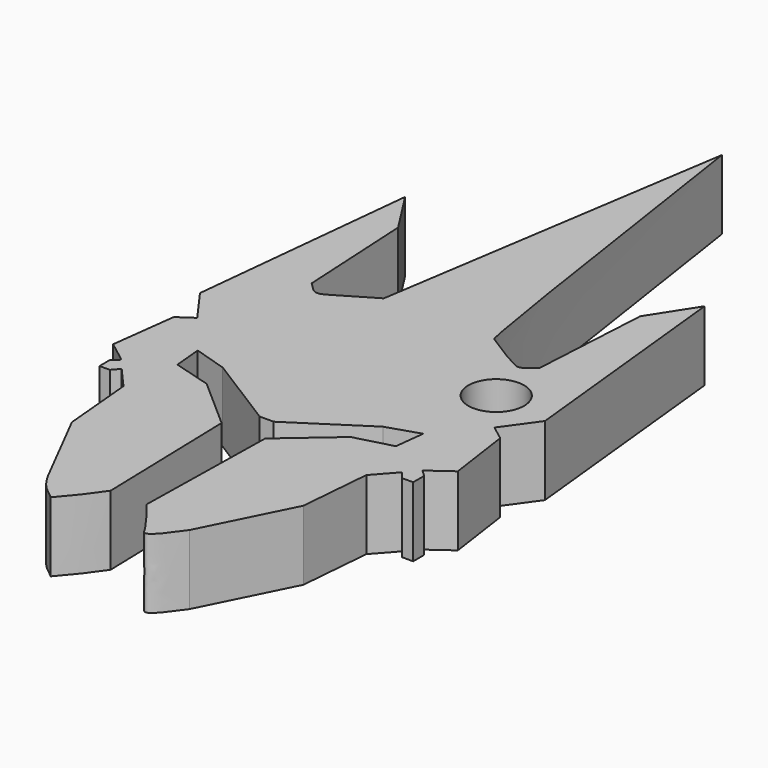
from build123d import *

# Parameters (mm, degrees)
F1_DEPTH = 5
F2_R     = 2
F3_DEPTH = 5


with BuildPart() as f1:
    # F0 (on Top) → F1 (new body)
    with BuildSketch(Plane.XY):
        with BuildLine():
            add(Edge.make_bspline(
                [(29.9724638904, 58.0447454468), (31.7486587338, 46.112565922), (33.7330302932, 32.7818900796), (34.032502938, 32.5658368121), (36.7673048364, 30.807175908), (37.3404538194, 30.759543032), (37.8542657204, 31.2150305121), (38.1466307056, 31.4742082192)],
                knots=[0, 0, 0, 0, 0.5506725855, 0.6152134837, 0.8069634099, 0.890159921, 1, 1, 1, 1], degree=3))
            add(Edge.make_bspline(
                [(26.0426644236, 32.607961446), (27.3525975792, 41.0868894463), (28.6625307348, 49.5658174465), (29.9724638904, 58.0447454468)],
                knots=[0, 0, 0, 0, 25.7385567612, 25.7385567612, 25.7385567612, 25.7385567612], degree=3))
            add(Edge.make_bspline(
                [(23.2348386198, 30.9456177056), (24.1707805544, 31.4997322857), (25.106722489, 32.0538468659), (26.0426644236, 32.607961446)],
                knots=[0, 0, 0, 0, 3.2630158528, 3.2630158528, 3.2630158528, 3.2630158528], degree=3))
            add(Edge.make_bspline(
                [(21.7401254922, 31.5183587372), (22.0453741248, 31.1862547621), (22.574568522, 30.610502591), (23.0385077117, 30.845971432), (23.2348386198, 30.9456177056)],
                knots=[0, 0, 0, 0, 0.5768175819, 1, 1, 1, 1], degree=3))
            add(Edge.make_bspline(
                [(21.2931074202, 39.8300811648), (21.4421134442, 37.0595070223), (21.5911194682, 34.2889328798), (21.7401254922, 31.5183587372)],
                knots=[0, 0, 0, 0, 8.3237344305, 8.3237344305, 8.3237344305, 8.3237344305], degree=3))
            add(Edge.make_bspline(
                [(19.2783884704, 42.976025492), (19.9499614537, 41.9273773829), (20.6215344369, 40.8787292739), (21.2931074202, 39.8300811648)],
                knots=[0, 0, 0, 0, 3.735780796, 3.735780796, 3.735780796, 3.735780796], degree=3))
            add(Edge.make_bspline(
                [(17.5911597908, 26.6739595681), (18.1535693506, 32.1079815427), (18.7159789105, 37.5420035173), (19.2783884704, 42.976025492)],
                knots=[0, 0, 0, 0, 16.3891456154, 16.3891456154, 16.3891456154, 16.3891456154], degree=3))
            add(Edge.make_bspline(
                [(19.3532668054, 24.2223013192), (18.7658978005, 25.0395207355), (18.1785287956, 25.8567401518), (17.5911597908, 26.6739595681)],
                knots=[0, 0, 0, 0, 3.0192133579, 3.0192133579, 3.0192133579, 3.0192133579], degree=3))
            add(Edge.make_bspline(
                [(18.2615574449, 23.477986455), (18.6254605651, 23.7260914097), (18.9893636853, 23.9741963645), (19.3532668054, 24.2223013192)],
                knots=[0, 0, 0, 0, 1.3213000965, 1.3213000965, 1.3213000965, 1.3213000965], degree=3))
            add(Edge.make_bspline(
                [(17.671212554, 18.77704449), (17.8679941843, 20.344025145), (18.0647758146, 21.9110058), (18.2615574449, 23.477986455)],
                knots=[0, 0, 0, 0, 4.7378647562, 4.7378647562, 4.7378647562, 4.7378647562], degree=3))
            add(Edge.make_bspline(
                [(19.2088503391, 17.6043882966), (18.6963044107, 17.9952736944), (18.1837584823, 18.3861590922), (17.671212554, 18.77704449)],
                knots=[0, 0, 0, 0, 1.9337664042, 1.9337664042, 1.9337664042, 1.9337664042], degree=3))
            add(Edge.make_bspline(
                [(18.7254343182, 17.1286463737), (18.8865729918, 17.2872270147), (19.0477116654, 17.4458076557), (19.2088503391, 17.6043882966)],
                knots=[0, 0, 0, 0, 0.6782487939, 0.6782487939, 0.6782487939, 0.6782487939], degree=3))
            add(Edge.make_bspline(
                [(18.7254343182, 16.2346344441), (18.7254343182, 16.5326384207), (18.7254343182, 16.8306423972), (18.7254343182, 17.1286463737)],
                knots=[0, 0, 0, 0, 0.8940119296, 0.8940119296, 0.8940119296, 0.8940119296], degree=3))
            add(Edge.make_bspline(
                [(19.4736756384, 16.2346344441), (19.2292003582, 16.2346344441), (18.9699095984, 16.2346344441), (18.7254343182, 16.2346344441)],
                knots=[0, 0, 0, 0, 0.7482413203, 0.7482413203, 0.7482413203, 0.7482413203], degree=3))
            add(Edge.make_bspline(
                [(19.909504801, 16.7448166758), (19.7642284135, 16.5772251785), (19.618952026, 16.4022259414), (19.4736756384, 16.2346344441)],
                knots=[0, 0, 0, 0, 0.6709940152, 0.6709940152, 0.6709940152, 0.6709940152], degree=3))
            add(Edge.make_bspline(
                [(21.3073641062, 15.1590099558), (20.8414110045, 15.6876121958), (20.3754579027, 16.2162144358), (19.909504801, 16.7448166758)],
                knots=[0, 0, 0, 0, 2.1139521258, 2.1139521258, 2.1139521258, 2.1139521258], degree=3))
            add(Edge.make_bspline(
                [(21.7772331089, 9.9434666336), (21.620610108, 11.6819810743), (21.4639871071, 13.4204955151), (21.3073641062, 15.1590099558)],
                knots=[0, 0, 0, 0, 5.2366658311, 5.2366658311, 5.2366658311, 5.2366658311], degree=3))
            add(Edge.make_bspline(
                [(24.502472952, 4.5987097546), (23.605806753, 6.3685486093), (22.6738993078, 8.1736277789), (21.7772331089, 9.9434666336)],
                knots=[0, 0, 0, 0, 5.9994464992, 5.9994464992, 5.9994464992, 5.9994464992], degree=3))
            add(Edge.make_bspline(
                [(26.5474077314, 2.0785415545), (26.1329942157, 2.3952502739), (25.2832540862, 3.0446502041), (24.7669687916, 4.0722596809), (24.502472952, 4.5987097546)],
                knots=[0, 0, 0, 0, 0.4876944154, 1, 1, 1, 1], degree=3))
            add(Edge.make_bspline(
                [(28.6707375199, 4.8025515862), (28.0442070216, 3.8789161481), (27.3298751563, 2.9444703832), (26.5474077314, 2.0785415545)],
                knots=[0, 0, 0, 0, 3.4538037065, 3.4538037065, 3.4538037065, 3.4538037065], degree=3))
            add(Edge.make_bspline(
                [(28.6707375199, 4.8025515862), (28.6707375199, 4.8165208039), (28.6707375199, 4.8304900217), (28.6707375199, 4.8444592394)],
                knots=[0, 0, 0, 0, 0.0419076532, 0.0419076532, 0.0419076532, 0.0419076532], degree=3))
            add(Edge.make_bspline(
                [(28.3913500607, 15.1118822396), (28.4844792138, 11.6894079062), (28.5776083668, 8.2669335728), (28.6707375199, 4.8444592394)],
                knots=[0, 0, 0, 0, 10.2712235112, 10.2712235112, 10.2712235112, 10.2712235112], degree=3))
            add(Edge.make_bspline(
                [(24.76522699, 18.3016471565), (25.9739346802, 17.2383921842), (27.1826423705, 16.1751372119), (28.3913500607, 15.1118822396)],
                knots=[0, 0, 0, 0, 4.8294273728, 4.8294273728, 4.8294273728, 4.8294273728], degree=3))
            add(Edge.make_bspline(
                [(22.0341142267, 19.0945509821), (22.9444851478, 18.8302497069), (23.8548560689, 18.5659484317), (24.76522699, 18.3016471565)],
                knots=[0, 0, 0, 0, 2.8438835072, 2.8438835072, 2.8438835072, 2.8438835072], degree=3))
            add(Edge.make_bspline(
                [(21.8472741544, 21.1488306522), (21.9095541785, 20.4640707622), (21.9718342026, 19.7793108722), (22.0341142267, 19.0945509821)],
                knots=[0, 0, 0, 0, 2.0627588748, 2.0627588748, 2.0627588748, 2.0627588748], degree=3))
            add(Edge.make_bspline(
                [(24.2360215634, 20.4084590077), (23.4397724271, 20.6552495559), (22.6435232908, 20.9020401041), (21.8472741544, 21.1488306522)],
                knots=[0, 0, 0, 0, 2.5008527258, 2.5008527258, 2.5008527258, 2.5008527258], degree=3))
            add(Edge.make_bspline(
                [(29.5722875744, 17.0558299869), (27.7935322374, 18.1733729939), (26.0147769004, 19.2909160008), (24.2360215634, 20.4084590077)],
                knots=[0, 0, 0, 0, 6.3020517525, 6.3020517525, 6.3020517525, 6.3020517525], degree=3))
            add(Edge.make_bspline(
                [(30.5780749768, 17.0558299869), (30.2428125093, 17.0558299869), (29.9075500419, 17.0558299869), (29.5722875744, 17.0558299869)],
                knots=[0, 0, 0, 0, 1.0057874024, 1.0057874024, 1.0057874024, 1.0057874024], degree=3))
            add(Edge.make_bspline(
                [(35.7327386737, 20.4084590077), (34.0145174414, 19.2909160008), (32.2962962091, 18.1733729939), (30.5780749768, 17.0558299869)],
                knots=[0, 0, 0, 0, 6.1490388826, 6.1490388826, 6.1490388826, 6.1490388826], degree=3))
            add(Edge.make_bspline(
                [(38.0376726389, 21.1488306522), (37.2693613172, 20.9020401041), (36.5010499954, 20.6552495559), (35.7327386737, 20.4084590077)],
                knots=[0, 0, 0, 0, 2.4209235337, 2.4209235337, 2.4209235337, 2.4209235337], degree=3))
            add(Edge.make_bspline(
                [(37.7862267196, 19.0115291625), (37.870042026, 19.7239629924), (37.9538573325, 20.4363968223), (38.0376726389, 21.1488306522)],
                knots=[0, 0, 0, 0, 2.152041521, 2.152041521, 2.152041521, 2.152041521], degree=3))
            add(Edge.make_bspline(
                [(35.107459873, 18.2990971953), (36.0003821552, 18.5365745177), (36.8933044374, 18.7740518401), (37.7862267196, 19.0115291625)],
                knots=[0, 0, 0, 0, 2.771885843, 2.771885843, 2.771885843, 2.771885843], degree=3))
            add(Edge.make_bspline(
                [(31.4793661237, 15.1624120772), (32.6887307068, 16.2079737832), (33.8980952899, 17.2535354892), (35.107459873, 18.2990971953)],
                knots=[0, 0, 0, 0, 4.7960252067, 4.7960252067, 4.7960252067, 4.7960252067], degree=3))
            add(Edge.make_bspline(
                [(31.2843844295, 4.7608800232), (31.3493783275, 8.2280573746), (31.4143722256, 11.6952347259), (31.4793661237, 15.1624120772)],
                knots=[0, 0, 0, 0, 10.403359406, 10.403359406, 10.403359406, 10.403359406], degree=3))
            add(Edge.make_bspline(
                [(32.0361740887, 3.8325546775), (31.7855775356, 4.1419964594), (31.5349809825, 4.4514382413), (31.2843844295, 4.7608800232)],
                knots=[0, 0, 0, 0, 1.1945608563, 1.1945608563, 1.1945608563, 1.1945608563], degree=3))
            add(Edge.make_bspline(
                [(33.054754138, 2.4114842527), (32.7152274549, 2.8851743943), (32.3757007718, 3.3588645359), (32.0361740887, 3.8325546775)],
                knots=[0, 0, 0, 0, 1.7484125569, 1.7484125569, 1.7484125569, 1.7484125569], degree=3))
            add(Edge.make_bspline(
                [(35.107459873, 3.8325546775), (34.4551394852, 2.9154699561), (33.4908565418, 1.5598030612), (33.1613540206, 2.2033012336), (33.054754138, 2.4114842527)],
                knots=[0, 0, 0, 0, 0.676482346, 1, 1, 1, 1], degree=3))
            add(Edge.make_bspline(
                [(38.2508561015, 10.1316999644), (37.2030573587, 8.0319848688), (36.1552586158, 5.9322697731), (35.107459873, 3.8325546775)],
                knots=[0, 0, 0, 0, 7.0398985217, 7.0398985217, 7.0398985217, 7.0398985217], degree=3))
            add(Edge.make_bspline(
                [(38.6808179319, 15.2363879606), (38.5374973218, 13.5348252952), (38.3941767116, 11.8332626298), (38.2508561015, 10.1316999644)],
                knots=[0, 0, 0, 0, 5.1227635817, 5.1227635817, 5.1227635817, 5.1227635817], degree=3))
            add(Edge.make_bspline(
                [(40.0323420763, 16.7555473745), (39.5818340282, 16.2491609032), (39.13132598, 15.7427744319), (38.6808179319, 15.2363879606)],
                knots=[0, 0, 0, 0, 2.0333378563, 2.0333378563, 2.0333378563, 2.0333378563], degree=3))
            add(Edge.make_bspline(
                [(40.4816567898, 16.2004696439), (40.3318852186, 16.3854955541), (40.1821136475, 16.5705214643), (40.0323420763, 16.7555473745)],
                knots=[0, 0, 0, 0, 0.7141393413, 0.7141393413, 0.7141393413, 0.7141393413], degree=3))
            add(Edge.make_bspline(
                [(41.2770021849, 16.2004696439), (41.0118870532, 16.2004696439), (40.7467719215, 16.2004696439), (40.4816567898, 16.2004696439)],
                knots=[0, 0, 0, 0, 0.7953453951, 0.7953453951, 0.7953453951, 0.7953453951], degree=3))
            add(Edge.make_bspline(
                [(41.2770021849, 17.1820859744), (41.2770021849, 16.8548805309), (41.2770021849, 16.5276750874), (41.2770021849, 16.2004696439)],
                knots=[0, 0, 0, 0, 0.9816163306, 0.9816163306, 0.9816163306, 0.9816163306], degree=3))
            add(Edge.make_bspline(
                [(40.7965834926, 17.64118965), (40.9738251797, 17.4700609512), (41.0997604978, 17.3532146732), (41.2770021849, 17.1820859744)],
                knots=[0, 0, 0, 0, 0.6645135851, 0.6645135851, 0.6645135851, 0.6645135851], degree=3))
            add(Edge.make_bspline(
                [(42.4032508151, 18.8002645125), (41.8676950409, 18.413906225), (41.3321392668, 18.0275479375), (40.7965834926, 17.64118965)],
                knots=[0, 0, 0, 0, 1.9811194871, 1.9811194871, 1.9811194871, 1.9811194871], degree=3))
            add(Edge.make_bspline(
                [(41.7402017471, 23.4364685763), (41.9612181031, 21.8910672217), (42.1822344591, 20.3456658671), (42.4032508151, 18.8002645125)],
                knots=[0, 0, 0, 0, 4.6833772203, 4.6833772203, 4.6833772203, 4.6833772203], degree=3))
            add(Edge.make_bspline(
                [(40.6848289339, 24.2309980845), (41.0366198716, 23.9661549151), (41.3884108094, 23.7013117457), (41.7402017471, 23.4364685763)],
                knots=[0, 0, 0, 0, 1.3210181354, 1.3210181354, 1.3210181354, 1.3210181354], degree=3))
            add(Edge.make_bspline(
                [(42.4032508151, 26.623856247), (41.8304435214, 25.8262368595), (41.2576362277, 25.028617472), (40.6848289339, 24.2309980845)],
                knots=[0, 0, 0, 0, 2.9459707989, 2.9459707989, 2.9459707989, 2.9459707989], degree=3))
            add(Edge.make_bspline(
                [(40.6848289339, 43.0994752292), (41.2576362277, 37.6076022352), (41.8304435214, 32.1157292411), (42.4032508151, 26.623856247)],
                knots=[0, 0, 0, 0, 16.5649930458, 16.5649930458, 16.5649930458, 16.5649930458], degree=3))
            add(Edge.make_bspline(
                [(38.6263282777, 39.8907153099), (39.2901518823, 40.944705658), (40.0210053294, 42.0454848812), (40.6848289339, 43.0994752292)],
                knots=[0, 0, 0, 0, 3.8122913282, 3.8122913282, 3.8122913282, 3.8122913282], degree=3))
            add(Edge.make_bspline(
                [(38.1466307056, 31.4742082192), (38.3065298963, 34.2797105828), (38.466429087, 37.0852129464), (38.6263282777, 39.8907153099)],
                knots=[0, 0, 0, 0, 8.4301661531, 8.4301661531, 8.4301661531, 8.4301661531], degree=3))
        make_face()
    extrude(amount=F1_DEPTH)

    # F2 (on face) → F3 (cut)
    with BuildSketch(Plane.XY.offset(5)):
        with Locations((38.3405666581, 27.326411892)):
            Circle(F2_R)
    extrude(amount=-F3_DEPTH, mode=Mode.SUBTRACT)


solid = f1.part
